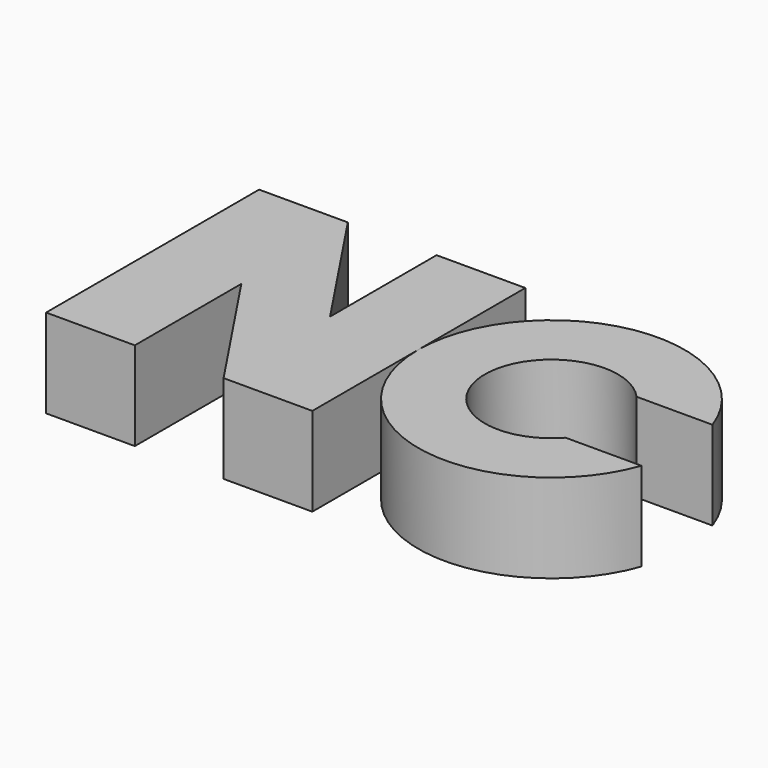
from build123d import *

# Parameters (mm, degrees)
F1_DEPTH = 5
F3_DEPTH = 5


with BuildPart() as f1:
    # F0 (on Top) → F1 (new body)
    with BuildSketch(Plane.XY):
        Polygon((-15, 0), (-15, -15), (-10, -15), (-10, -7.5), (-5, -15), (0, -15), (0, 0), (-5, 0), (-5, -7.5), (-10, 0), align=None)
    extrude(amount=F1_DEPTH)

    # F2 (on Top) → F3 (join)
    with BuildSketch(Plane.XY):
        with BuildLine():
            Line((10.295085, -5.035033), (14.571068, -5.035033))
            ThreePointArc((14.571068, -5.035033), (0, -7.535033), (14.571068, -10.035033))
            Line((14.571068, -10.035033), (10.295085, -10.035033))
            ThreePointArc((10.295085, -10.035033), (3.75, -7.535033), (10.295085, -5.035033))
        make_face()
    extrude(amount=F3_DEPTH)


solid = f1.part
